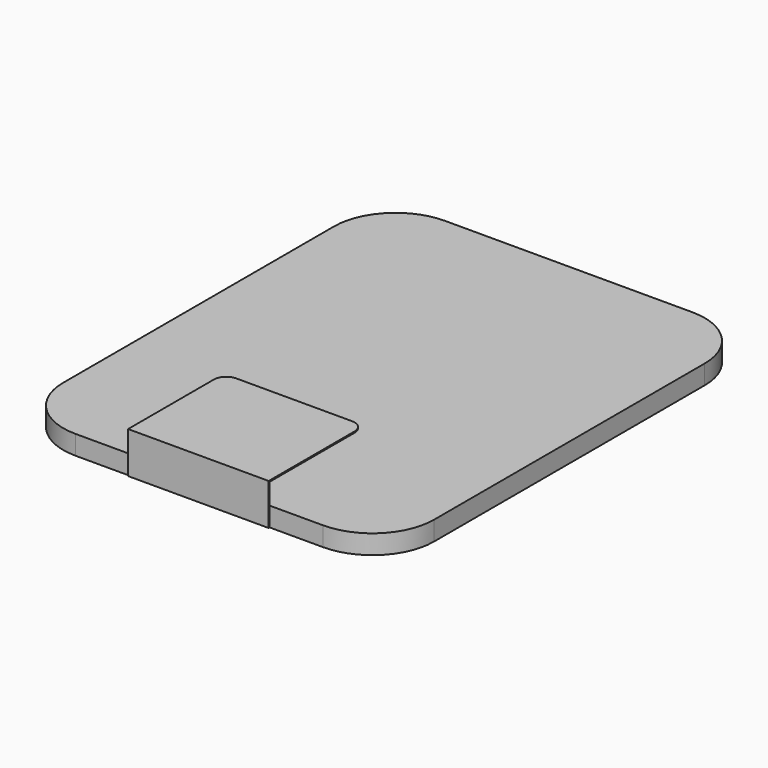
from build123d import *

# Parameters (mm, degrees)
PAD_DEPTH    = 1.56
PAD001_DEPTH = 1.56
SKETCH002_W  = 11.4
SKETCH002_H  = 3.36
PAD002_DEPTH = 0.1
SKETCH003_W  = 11.4
SKETCH003_H  = 0.1
PAD003_DEPTH = 9.6
FILLET_R     = 1
FILLET001_R  = 1
POCKET_DEPTH = 0.2


with BuildPart() as part:
    # Sketch → Pad (new body)
    with BuildSketch(Plane.XY):
        with BuildLine():
            Line((-9.985, 17.165), (9.985, 17.165))
            ThreePointArc((13.985, 13.165), (12.813427, 15.993427), (9.985, 17.165))
            Line((13.985, 13.165), (13.985, -13.165))
            ThreePointArc((9.985, -17.165), (12.813427, -15.993427), (13.985, -13.165))
            Line((9.985, -17.165), (-9.985, -17.165))
            ThreePointArc((-13.985, -13.165), (-12.813427, -15.993427), (-9.985, -17.165))
            Line((-13.985, -13.165), (-13.985, 13.165))
            ThreePointArc((-9.985, 17.165), (-12.813427, 15.993427), (-13.985, 13.165))
        make_face()
    extrude(amount=PAD_DEPTH)

    # Sketch001 (on Face10 of Pad) → Pad001 (join)
    with BuildSketch(Plane.XY.offset(1.56)):
        with BuildLine():
            Line((-10.035, 18.165), (10.035, 18.165))
            ThreePointArc((15.035, 13.165), (13.570534, 16.700534), (10.035, 18.165))
            Line((15.035, 13.165), (15.035, -14.264405))
            ThreePointArc((10.035, -19.264405), (13.570534, -17.799939), (15.035, -14.264405))
            Line((10.035, -19.264405), (-10.035, -19.264405))
            ThreePointArc((-15.035, -14.264405), (-13.570534, -17.799939), (-10.035, -19.264405))
            Line((-15.035, -14.264405), (-15.035, 13.165))
            ThreePointArc((-10.035, 18.165), (-13.570534, 16.700534), (-15.035, 13.165))
        make_face()
    extrude(amount=-PAD001_DEPTH)

    # Sketch002 (on Face10 of Pad001) → Pad002 (join)
    with BuildSketch(Plane.XZ.offset(19.264405)):
        with Locations((0, 1.68)):
            Rectangle(SKETCH002_W, SKETCH002_H)
    extrude(amount=PAD002_DEPTH)

    # Sketch003 (on Face11 of Pad002) → Pad003 (join)
    with BuildSketch(Plane(origin=(0, -19.264405, 0), x_dir=(-1, 0, 0), z_dir=(0, 1, 0))):
        with Locations((0, 3.31)):
            Rectangle(SKETCH003_W, SKETCH003_H)
    extrude(amount=PAD003_DEPTH)

    # Fillet
    fillet_edges = [part.edges().sort_by_distance(p)[0] for p in [
        (-5.7, -9.664405, 3.31),
    ]]
    fillet(fillet_edges, radius=FILLET_R)

    # Fillet001
    fillet001_edges = [part.edges().sort_by_distance(p)[0] for p in [
        (5.7, -9.664405, 3.31),
    ]]
    fillet(fillet001_edges, radius=FILLET001_R)

    # Sketch004 (on Face25 of Fillet001) → Pocket (cut)
    with BuildSketch(Plane(origin=(0, 0, 0), x_dir=(1, 0, 0), z_dir=(0, 0, -1))):
        with BuildLine():
            ThreePointArc((-7.5, 18.464405), (-7.75, 18.214405), (-7.5, 17.964405))
            Line((-7.5, 17.964405), (7.5, 17.964405))
            ThreePointArc((7.5, 17.964405), (7.75, 18.214405), (7.5, 18.464405))
            Line((7.5, 18.464405), (-7.5, 18.464405))
        make_face()
    extrude(amount=-POCKET_DEPTH, mode=Mode.SUBTRACT)


solid = part.part
